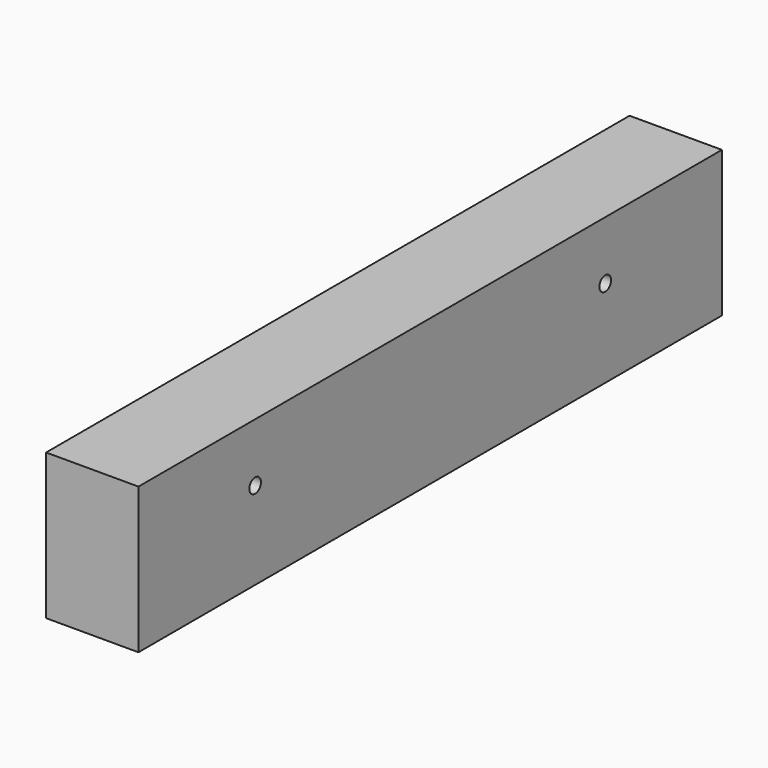
from build123d import *

# Parameters (mm, degrees)
F2_W           = 19
F2_H           = 30
F3_DEPTH       = 75
F5_D           = 3
F5_CSINK_D     = 8
F5_CSINK_ANGLE = 90


with BuildPart() as f3:
    # F2 (on Front) → F3 (new body, symmetric)
    with BuildSketch(Plane.XZ):
        with Locations((9.5, 0)):
            Rectangle(F2_W, F2_H)
    extrude(amount=F3_DEPTH, both=True)

    # F5 (through all)
    with Locations(Plane(origin=(0, 0, 0), x_dir=(0, -1, 0), z_dir=(-1, 0, 0))):
        with Locations((-45, 3), (45, 3)):
            CounterSinkHole(F5_D / 2, F5_CSINK_D / 2, counter_sink_angle=F5_CSINK_ANGLE)


solid = f3.part
